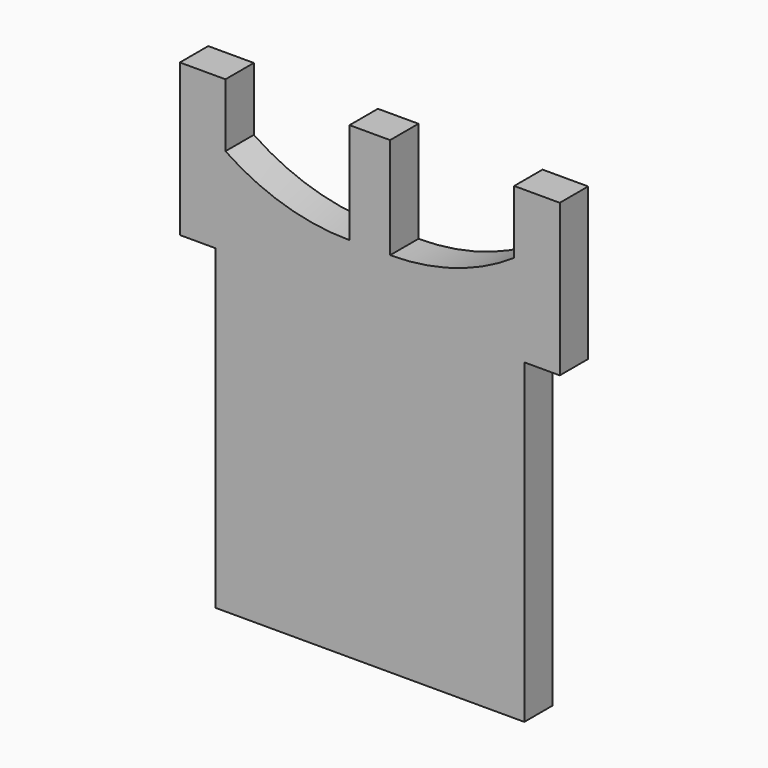
from build123d import *

# Parameters (mm, degrees)
F1_DEPTH = 14


with BuildPart() as f1:
    # F0 (on Front) → F1 (new body)
    with BuildSketch(Plane.XZ):
        with BuildLine():
            Line((0, 185), (0, 0))
            Line((0, 0), (61, 0))
            Line((61, 0), (61, 125))
            Line((61, 125), (75, 125))
            Line((75, 125), (75, 185))
            Line((75, 185), (57, 185))
            Line((57, 185), (57, 160))
            ThreePointArc((57, 160), (33.622256, 148.833964), (8, 145))
            Line((8, 145), (8, 185))
            Line((8, 185), (0, 185))
        make_face()
        with BuildLine():
            Line((-61, 125), (-61, 0))
            Line((-61, 0), (0, 0))
            Line((0, 0), (0, 185))
            Line((0, 185), (-8, 185))
            Line((-8, 185), (-8, 145))
            ThreePointArc((-8, 145), (-33.622256, 148.833964), (-57, 160))
            Line((-57, 160), (-57, 185))
            Line((-57, 185), (-75, 185))
            Line((-75, 185), (-75, 125))
            Line((-75, 125), (-61, 125))
        make_face()
    extrude(amount=F1_DEPTH)


solid = f1.part
